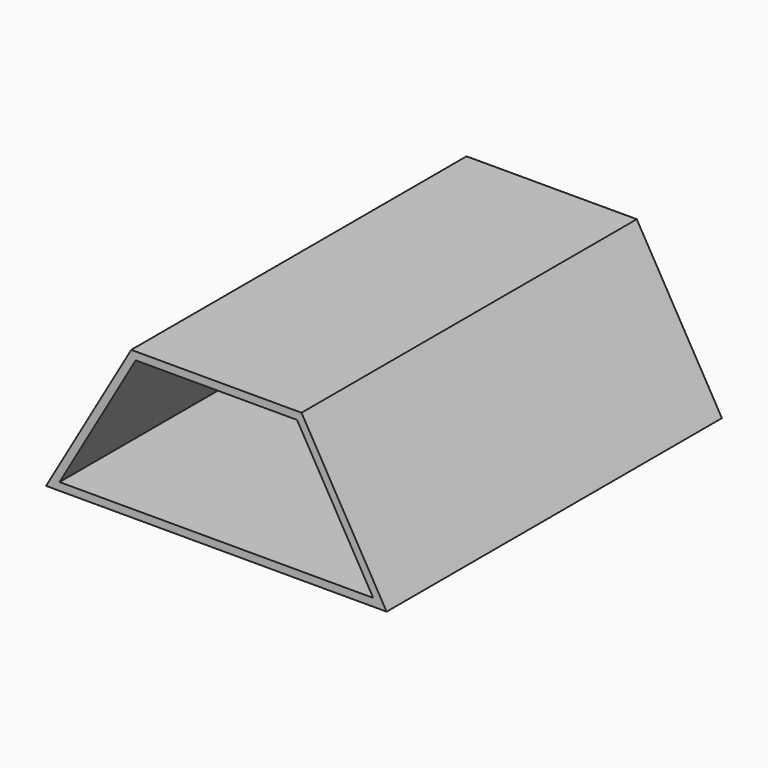
from build123d import *

# Parameters (mm, degrees)
F1_DEPTH = 171.45


with BuildPart() as f1:
    # F0 (on Front) → F1 (new body)
    with BuildSketch(Plane.XZ):
        Polygon((34.828655, 60.325), (-34.828655, 60.325), (-69.65731, 0), (69.65731, 0), align=None)
        Polygon((-64.158049, 3.175), (-32.995568, 57.15), (32.995568, 57.15), (64.158049, 3.175), align=None, mode=Mode.SUBTRACT)
    extrude(amount=F1_DEPTH)


solid = f1.part
